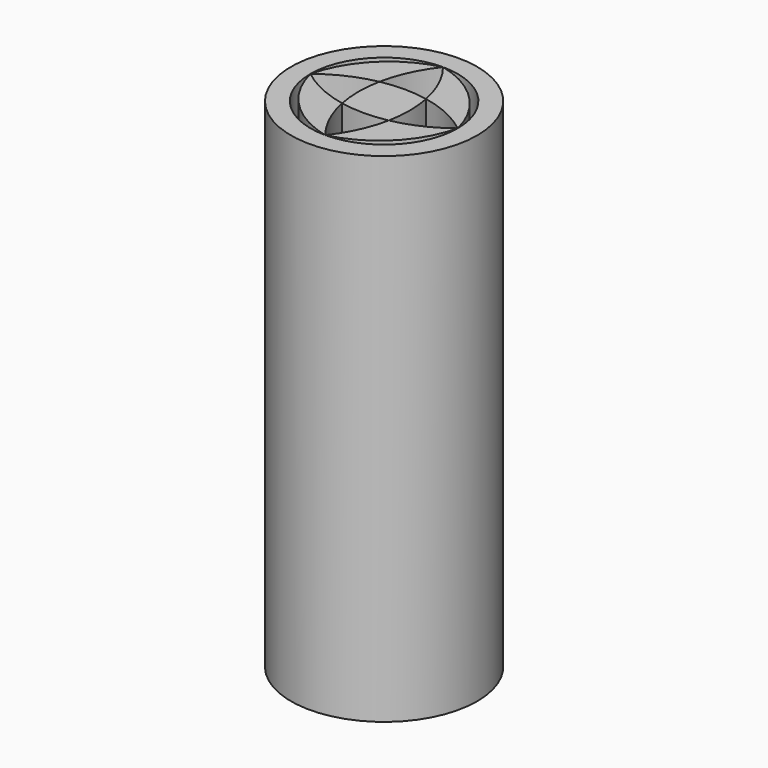
from build123d import *

# Parameters (mm, degrees)
F0_R     = 49.8159482483
F1_DEPTH = 266.6244804859


with BuildPart() as f1:
    # F0 (on Top) → F1 (new body)
    with BuildSketch(Plane.XY):
        Circle(F0_R)
        with BuildLine():
            ThreePointArc((0, 39.4240655005), (27.8770240573, 27.8770240573), (39.4240655005, 0))
            ThreePointArc((39.4240655005, 0), (27.8770240573, -27.8770240573), (0, -39.4240655005))
            ThreePointArc((0, -39.4240655005), (-27.8770240573, -27.8770240573), (-39.4240655005, 0))
            ThreePointArc((-39.4240655005, 0), (-27.8770240573, 27.8770240573), (0, 39.4240655005))
        make_face(mode=Mode.SUBTRACT)
    extrude(amount=-F1_DEPTH)


with BuildPart() as f1b:
    # F0 (on Top) → F1, piece 2 (new body)
    with BuildSketch(Plane.XY):
        with BuildLine():
            ThreePointArc((0, -39.4240655005), (25.2683708839, -25.2683708839), (39.4240655005, 0))
            ThreePointArc((39.4240655005, 0), (26.6890558836, -7.8345498979), (12.4756539136, -12.4756539136))
            ThreePointArc((12.4756539136, -12.4756539136), (7.8345498979, -26.6890558836), (0, -39.4240655005))
        make_face()
    extrude(amount=-F1_DEPTH)


with BuildPart() as f1c:
    # F0 (on Top) → F1, piece 3 (new body)
    with BuildSketch(Plane.XY):
        with BuildLine():
            ThreePointArc((12.4756539136, 12.4756539136), (26.6890558836, 7.8345498979), (39.4240655005, 0))
            ThreePointArc((39.4240655005, 0), (25.2683708839, 25.2683708839), (0, 39.4240655005))
            ThreePointArc((0, 39.4240655005), (7.8345498979, 26.6890558836), (12.4756539136, 12.4756539136))
        make_face()
    extrude(amount=-F1_DEPTH)


with BuildPart() as f1d:
    # F0 (on Top) → F1, piece 4 (new body)
    with BuildSketch(Plane.XY):
        with BuildLine():
            ThreePointArc((-12.4756539136, 12.4756539136), (-7.8345498979, 26.6890558836), (0, 39.4240655005))
            ThreePointArc((0, 39.4240655005), (-25.2683708839, 25.2683708839), (-39.4240655005, 0))
            ThreePointArc((-39.4240655005, 0), (-26.6890558836, 7.8345498979), (-12.4756539136, 12.4756539136))
        make_face()
    extrude(amount=-F1_DEPTH)


with BuildPart() as f1e:
    # F0 (on Top) → F1, piece 5 (new body)
    with BuildSketch(Plane.XY):
        with BuildLine():
            ThreePointArc((-39.4240655005, 0), (-25.2683708839, -25.2683708839), (0, -39.4240655005))
            ThreePointArc((0, -39.4240655005), (-7.8345498979, -26.6890558836), (-12.4756539136, -12.4756539136))
            ThreePointArc((-12.4756539136, -12.4756539136), (-26.6890558836, -7.8345498979), (-39.4240655005, 0))
        make_face()
    extrude(amount=-F1_DEPTH)


with BuildPart() as f1f:
    # F0 (on Top) → F1, piece 6 (new body)
    with BuildSketch(Plane.XY):
        with BuildLine():
            ThreePointArc((12.4756539136, -12.4756539136), (13.7126723921, 0), (12.4756539136, 12.4756539136))
            ThreePointArc((12.4756539136, 12.4756539136), (0, 13.7126723921), (-12.4756539136, 12.4756539136))
            ThreePointArc((-12.4756539136, 12.4756539136), (-13.7126723921, 0), (-12.4756539136, -12.4756539136))
            ThreePointArc((-12.4756539136, -12.4756539136), (0, -13.7126723921), (12.4756539136, -12.4756539136))
        make_face()
    extrude(amount=-F1_DEPTH)


solid = Compound([f1.part, f1b.part, f1c.part, f1d.part, f1e.part, f1f.part])
